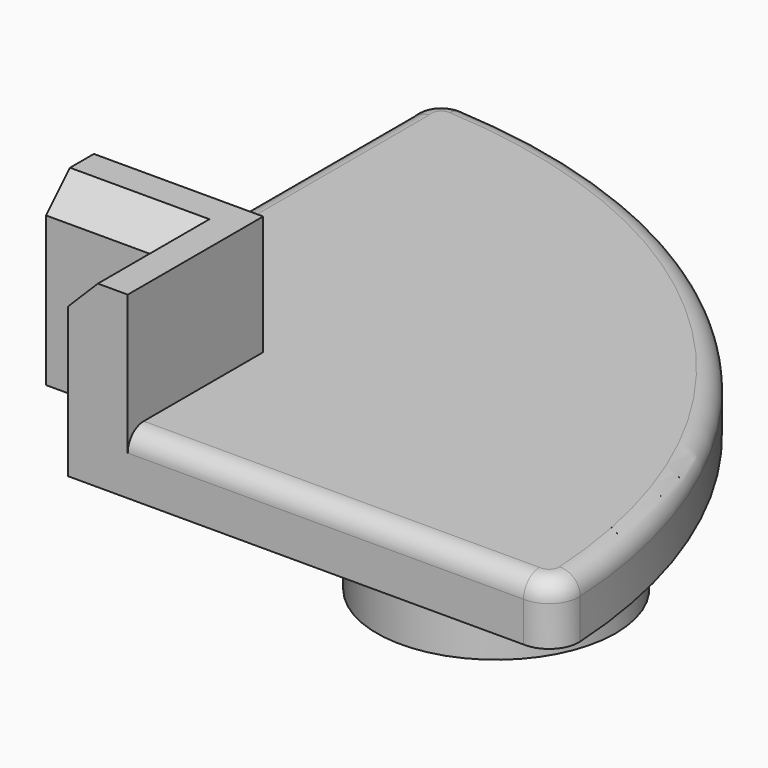
from build123d import *

# Parameters (mm, degrees)
SKETCH_R        = 6
SKETCH_R_2      = 4
PAD_DEPTH       = 8
PAD001_DEPTH    = 3
SKETCH002_W     = 2
SKETCH002_H     = 10
SKETCH002_W_2   = 10
SKETCH002_H_2   = 2
PAD002_DEPTH    = 2
CHAMFER_SIZE    = 1.99
CHAMFER001_SIZE = 1.99
PAD003_DEPTH    = 6
PAD003_FACE20_W = 5.5
PAD003_FACE20_H = 5.5
POCKET_DEPTH    = 11.001
FILLET_R        = 1
CHAMFER002_SIZE = 1.5


with BuildPart() as part:
    # Sketch → Pad (new body)
    with BuildSketch(Plane.XY):
        with Locations((15, 15)):
            Circle(SKETCH_R)
        with Locations((15, 15)):
            Circle(SKETCH_R_2, mode=Mode.SUBTRACT)
    extrude(amount=PAD_DEPTH)

    # Sketch001 (on Face4 of Pad) → Pad001 (join)
    with BuildSketch(Plane.XY.offset(8)):
        with BuildLine():
            Line((0, 28.183589), (0, 0))
            Line((0, 0), (28.371979, 0))
            ThreePointArc((28.371979, 0), (29.515053, 0.439592), (29.949498, 1.584632))
            ThreePointArc((29.949498, 1.584632), (21.158025, 21.174653), (1.561155, 29.950849))
            ThreePointArc((1.561155, 29.950849), (0.351368, 29.446372), (0, 28.183589))
        make_face()
    extrude(amount=PAD001_DEPTH)

    # Sketch002 (on Face4 of Pad001) → Pad002 (join)
    with BuildSketch(Plane(origin=(0, 0, 8), x_dir=(1, 0, 0), z_dir=(0, 0, -1))):
        with Locations((6, -15)):
            Rectangle(SKETCH002_W, SKETCH002_H)
        with Locations((15, -6)):
            Rectangle(SKETCH002_W_2, SKETCH002_H_2)
    extrude(amount=PAD002_DEPTH)

    # Chamfer
    chamfer_edges = [part.edges().sort_by_distance(p)[0] for p in [
        (11, 15, 8),
    ]]
    chamfer(chamfer_edges, length=CHAMFER_SIZE)

    # Chamfer001
    chamfer001_edges = [part.edges().sort_by_distance(p)[0] for p in [
        (5, 15, 8),
        (15, 5, 8),
    ]]
    chamfer(chamfer001_edges, length=CHAMFER001_SIZE)

    # Sketch003 → Pad003 (join)
    with BuildSketch(Plane.XY.offset(11)):
        Polygon((0, 8.5), (8.5, 8.5), (8.5, 0), (5.5, 0), (5.5, 5.5), (0, 5.5), align=None)
    extrude(amount=PAD003_DEPTH)

    # Pad003 Face20 → Pocket (cut, through all)
    with BuildSketch(Plane(origin=(2.75, 2.75, 11), x_dir=(0, 1, 0), z_dir=(0, 0, 1))):
        Rectangle(PAD003_FACE20_W, PAD003_FACE20_H)
    extrude(amount=-POCKET_DEPTH, mode=Mode.SUBTRACT)

    # Fillet
    fillet_edges = [part.edges().sort_by_distance(p)[0] for p in [
        (29.515053, 0.439592, 11),
        (18.435989, 0, 11),
        (21.158025, 21.174653, 11),
        (0.351368, 29.446372, 11),
        (0, 18.341794, 11),
    ]]
    fillet(fillet_edges, radius=FILLET_R)

    # Chamfer002
    chamfer002_edges = [part.edges().sort_by_distance(p)[0] for p in [
        (2.75, 5.5, 17),
        (5.5, 2.75, 17),
    ]]
    chamfer(chamfer002_edges, length=CHAMFER002_SIZE)


solid = part.part
